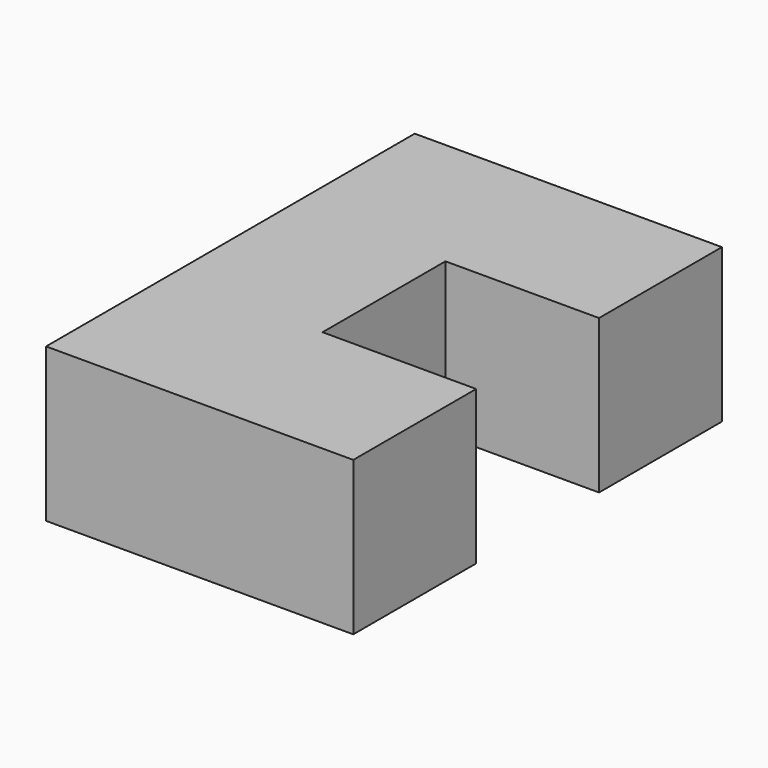
from build123d import *

# Parameters (mm, degrees)
F0_W     = 19.05
F0_H     = 19.05
F1_DEPTH = 19.05


with BuildPart() as f1:
    # F0 (on Top) → F1 (new body)
    with BuildSketch(Plane.XY):
        with Locations((-9.525, 42.208824)):
            Rectangle(F0_W, F0_H)
        with Locations((9.525, 42.208824)):
            Rectangle(F0_W, F0_H)
        with Locations((-9.525, 23.158824)):
            Rectangle(F0_W, F0_H)
        with Locations((-9.525, 4.108824)):
            Rectangle(F0_W, F0_H)
        with Locations((9.525, 4.108824)):
            Rectangle(F0_W, F0_H)
    extrude(amount=F1_DEPTH)


solid = f1.part
